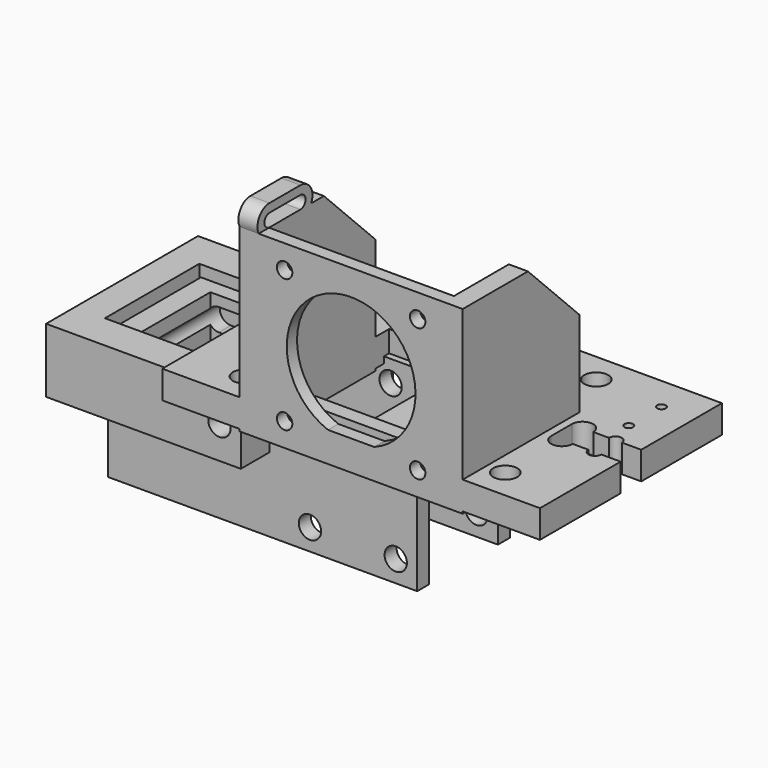
from build123d import *

# Parameters (mm, degrees)
SKETCH_W         = 88
SKETCH_H         = 53
SKETCH_R         = 2.8
SKETCH_R_2       = 3.65
PAD_DEPTH        = 6.5
SKETCH001_W      = 52
SKETCH001_H      = 42
SKETCH001_R      = 15
SKETCH001_R_2    = 1.75
PAD001_DEPTH     = 34
SKETCH002_W      = 43.1
SKETCH002_H      = 42.6
POCKET_DEPTH     = 35
CHAMFER001_SIZE  = 15
SKETCH003_R      = 1.8
HOLE_DEPTH       = 25
HOLE_TIPS_R      = 1.8
SKETCH004_W      = 16.18
SKETCH004_H      = 6
POCKET001_DEPTH  = 8.001
CHAMFER003_SIZE2 = 14
CHAMFER003_SIZE  = 20
SKETCH012_R      = 1
HOLE002_DEPTH    = 25
HOLE002_TIPS_R   = 1
PAD004_DEPTH     = 4.45
SKETCH005_W      = 72
SKETCH005_H      = 30
SKETCH005_R      = 2.6
PAD002_DEPTH     = 13.5
SKETCH006_W      = 67
SKETCH006_H      = 30
POCKET002_DEPTH  = 10
PAD003_DEPTH     = 7.5
SKETCH008_R      = 2.6
POCKET003_DEPTH  = 44.263864
SKETCH009_R      = 2.9
HOLE001_DEPTH    = 25
HOLE001_TIPS_R   = 2.9
POCKET004_DEPTH  = 2
SKETCH016_W      = 20
SKETCH016_H      = 20
SKETCH016_R      = 2.6
PAD006_DEPTH     = 3
SKETCH017_R      = 1.05
HOLE004_DEPTH    = 3.001


with BuildPart() as body:
    # Sketch → Pad (new body)
    with BuildSketch(Plane.XY.offset(3.5)):
        Rectangle(SKETCH_W, SKETCH_H)
        with Locations((20.32, 19.5)):
            Circle(SKETCH_R, mode=Mode.SUBTRACT)
        with Locations((-30.32, -19.5)):
            Circle(SKETCH_R, mode=Mode.SUBTRACT)
        with Locations((30.32, -19.5)):
            Circle(SKETCH_R, mode=Mode.SUBTRACT)
        with Locations((-20.32, 19.5)):
            Circle(SKETCH_R, mode=Mode.SUBTRACT)
        with Locations((0, 19.5)):
            Circle(SKETCH_R_2, mode=Mode.SUBTRACT)
        with BuildLine():
            ThreePointArc((-36.5, 3), (-38, 4.5), (-39.5, 3))
            Line((-39.5, 3), (-39.5, -3))
            ThreePointArc((-39.5, -3), (-38, -4.5), (-36.5, -3))
            Line((-36.5, -3), (-36.5, 3))
        make_face(mode=Mode.SUBTRACT)
        with BuildLine():
            ThreePointArc((39.5, 3), (38, 4.5), (36.5, 3))
            Line((36.5, 3), (36.5, -3))
            ThreePointArc((36.5, -3), (38, -4.5), (39.5, -3))
            Line((39.5, -3), (39.5, 3))
        make_face(mode=Mode.SUBTRACT)
        with BuildLine():
            ThreePointArc((-27.82, 3), (-30.32, 5.5), (-32.82, 3))
            Line((-32.82, 3), (-32.82, -3))
            ThreePointArc((-32.82, -3), (-30.32, -5.5), (-27.82, -3))
            Line((-27.82, -3), (-27.82, 3))
        make_face(mode=Mode.SUBTRACT)
        with BuildLine():
            ThreePointArc((32.82, 3), (30.32, 5.5), (27.82, 3))
            Line((27.82, 3), (27.82, -3))
            ThreePointArc((27.82, -3), (30.32, -5.5), (32.82, -3))
            Line((32.82, -3), (32.82, 3))
        make_face(mode=Mode.SUBTRACT)
    extrude(amount=PAD_DEPTH)

    # Sketch001 → Pad001 (join)
    with BuildSketch(Plane(origin=(0, -26.5, 24), x_dir=(1, 0, 0), z_dir=(0, -1, 0))):
        Rectangle(SKETCH001_W, SKETCH001_H)
        Circle(SKETCH001_R, mode=Mode.SUBTRACT)
        with Locations((-15.5, 15.5)):
            Circle(SKETCH001_R_2, mode=Mode.SUBTRACT)
        with Locations((-15.5, -15.5)):
            Circle(SKETCH001_R_2, mode=Mode.SUBTRACT)
        with Locations((15.5, -15.5)):
            Circle(SKETCH001_R_2, mode=Mode.SUBTRACT)
        with Locations((15.5, 15.5)):
            Circle(SKETCH001_R_2, mode=Mode.SUBTRACT)
    extrude(amount=-PAD001_DEPTH)

    # Sketch002 → Pocket (cut)
    with BuildSketch(Plane(origin=(0, -23.5, 24), x_dir=(1, 0, 0), z_dir=(0, -1, 0))):
        Rectangle(SKETCH002_W, SKETCH002_H)
    extrude(amount=-POCKET_DEPTH, mode=Mode.SUBTRACT)

    # Chamfer001
    chamfer001_edges = [body.edges().sort_by_distance(p)[0] for p in [
        (-23.775, 7.5, 45),
        (23.775, 7.5, 45),
    ]]
    chamfer(chamfer001_edges, length=CHAMFER001_SIZE)

    # Sketch003 → Hole (cut)
    with BuildSketch(Plane(origin=(0, -26.5, 24), x_dir=(1, 0, 0), z_dir=(0, -1, 0))):
        Circle(SKETCH003_R)
        with Locations((-15.5, 15.5)):
            Circle(SKETCH003_R)
        with Locations((-15.5, -15.5)):
            Circle(SKETCH003_R)
        with Locations((15.5, -15.5)):
            Circle(SKETCH003_R)
        with Locations((15.5, 15.5)):
            Circle(SKETCH003_R)
    extrude(amount=-HOLE_DEPTH, mode=Mode.SUBTRACT)

    # Hole tips → Hole tip 1 section 0
    with BuildSketch(Plane(origin=(0, -1.5, 24), x_dir=(1, 0, 0), z_dir=(0, -1, 0)), mode=Mode.PRIVATE) as hole_tip_1_s0:
        Circle(HOLE_TIPS_R)
    loft([hole_tip_1_s0.sketch, Vertex(0, -0.418451, 24)], mode=Mode.SUBTRACT)

    # Hole tips → Hole tip 2 section 0
    with BuildSketch(Plane(origin=(0, -1.5, 24), x_dir=(1, 0, 0), z_dir=(0, -1, 0)), mode=Mode.PRIVATE) as hole_tip_2_s0:
        with Locations((-15.5, 15.5)):
            Circle(HOLE_TIPS_R)
    loft([hole_tip_2_s0.sketch, Vertex(-15.5, -0.418451, 39.5)], mode=Mode.SUBTRACT)

    # Hole tips → Hole tip 3 section 0
    with BuildSketch(Plane(origin=(0, -1.5, 24), x_dir=(1, 0, 0), z_dir=(0, -1, 0)), mode=Mode.PRIVATE) as hole_tip_3_s0:
        with Locations((-15.5, -15.5)):
            Circle(HOLE_TIPS_R)
    loft([hole_tip_3_s0.sketch, Vertex(-15.5, -0.418451, 8.5)], mode=Mode.SUBTRACT)

    # Hole tips → Hole tip 4 section 0
    with BuildSketch(Plane(origin=(0, -1.5, 24), x_dir=(1, 0, 0), z_dir=(0, -1, 0)), mode=Mode.PRIVATE) as hole_tip_4_s0:
        with Locations((15.5, -15.5)):
            Circle(HOLE_TIPS_R)
    loft([hole_tip_4_s0.sketch, Vertex(15.5, -0.418451, 8.5)], mode=Mode.SUBTRACT)

    # Hole tips → Hole tip 5 section 0
    with BuildSketch(Plane(origin=(0, -1.5, 24), x_dir=(1, 0, 0), z_dir=(0, -1, 0)), mode=Mode.PRIVATE) as hole_tip_5_s0:
        with Locations((15.5, 15.5)):
            Circle(HOLE_TIPS_R)
    loft([hole_tip_5_s0.sketch, Vertex(15.5, -0.418451, 39.5)], mode=Mode.SUBTRACT)

    # Sketch004 → Pocket001 (cut, through all)
    with BuildSketch(Plane.XY.offset(11)):
        with Locations((-35.91, 0)):
            Rectangle(SKETCH004_W, SKETCH004_H)
        with Locations((35.91, 0)):
            Rectangle(SKETCH004_W, SKETCH004_H)
    extrude(amount=-POCKET001_DEPTH, mode=Mode.SUBTRACT)

    # Chamfer003
    chamfer003_edges = [body.edges().sort_by_distance(p)[0] for p in [
        (-44, 26.5, 6.75),
    ]]
    chamfer003_side = body.faces().sort_by_distance((-44, 14.75, 6.75))[0]
    chamfer(chamfer003_edges, length=CHAMFER003_SIZE, length2=CHAMFER003_SIZE2, reference=chamfer003_side)

    # Sketch012 → Hole002 (cut)
    with BuildSketch(Plane.XY):
        with Locations((36.3, 9)):
            Circle(SKETCH012_R)
        with Locations((36.3, 18.5)):
            Circle(SKETCH012_R)
    extrude(amount=HOLE002_DEPTH, mode=Mode.SUBTRACT)

    # Hole002 tips → Hole002 tip 1 section 0
    with BuildSketch(Plane.XY.offset(25), mode=Mode.PRIVATE) as hole002_tip_1_s0:
        with Locations((36.3, 9)):
            Circle(HOLE002_TIPS_R)
    loft([hole002_tip_1_s0.sketch, Vertex(36.3, 9, 25.600861)], mode=Mode.SUBTRACT)

    # Hole002 tips → Hole002 tip 2 section 0
    with BuildSketch(Plane.XY.offset(25), mode=Mode.PRIVATE) as hole002_tip_2_s0:
        with Locations((36.3, 18.5)):
            Circle(HOLE002_TIPS_R)
    loft([hole002_tip_2_s0.sketch, Vertex(36.3, 18.5, 25.600861)], mode=Mode.SUBTRACT)

    # Sketch013 (on Face26 of Hole002) → Pad004 (join)
    with BuildSketch(Plane(origin=(-26, 0, 0), x_dir=(0, -1, 0), z_dir=(-1, 0, 0))):
        with BuildLine():
            ThreePointArc((14.337722, 50), (10.837722, 46.5), (14.337722, 43))
            Line((14.337722, 43), (23.337722, 43))
            ThreePointArc((23.337722, 43), (26.837722, 46.5), (23.337722, 50))
            Line((23.337722, 50), (14.337722, 50))
        make_face()
        with BuildLine():
            ThreePointArc((14.337722, 48), (12.837722, 46.5), (14.337722, 45))
            Line((14.337722, 45), (23.337722, 45))
            ThreePointArc((23.337722, 45), (24.837722, 46.5), (23.337722, 48))
            Line((23.337722, 48), (14.337722, 48))
        make_face(mode=Mode.SUBTRACT)
    extrude(amount=-PAD004_DEPTH)


with BuildPart() as body001:
    # Sketch005 → Pad002 (new body, symmetric)
    with BuildSketch(Plane.XZ):
        with Locations((-31, -10)):
            Rectangle(SKETCH005_W, SKETCH005_H)
        Circle(SKETCH005_R, mode=Mode.SUBTRACT)
        with Locations((-20, 0)):
            Circle(SKETCH005_R, mode=Mode.SUBTRACT)
        with Locations((0, -20)):
            Circle(SKETCH005_R, mode=Mode.SUBTRACT)
        with Locations((-20, -20)):
            Circle(SKETCH005_R, mode=Mode.SUBTRACT)
        with BuildLine():
            ThreePointArc((-40, -2.6), (-37.4, 0), (-40, 2.6))
            Line((-40, 2.6), (-60, 2.6))
            ThreePointArc((-60, 2.6), (-62.6, 0), (-60, -2.6))
            Line((-60, -2.6), (-40, -2.6))
        make_face(mode=Mode.SUBTRACT)
    extrude(amount=PAD002_DEPTH, both=True)

    # Sketch006 → Pocket002 (cut, symmetric)
    with BuildSketch(Plane.XZ):
        with Locations((-28.5, -10)):
            Rectangle(SKETCH006_W, SKETCH006_H)
    extrude(amount=POCKET002_DEPTH, both=True, mode=Mode.SUBTRACT)


with BuildPart() as arm:
    # Sketch007 → Pad003 (new body, symmetric)
    with BuildSketch(Plane.XY):
        Polygon((-29.186819, 13.75), (-29.186819, 22.131432), (-74.573181, 22.131432), (-74.573181, -22.131432), (-29.186819, -22.131432), (-29.186819, -13.75), (-67.573181, -13.75), (-67.573181, 13.75), align=None)
    extrude(amount=PAD003_DEPTH, both=True)

    # Sketch008 (on Face4 of Pad003) → Pocket003 (cut, through all)
    with BuildSketch(Plane.XZ.offset(22.131432)):
        with Locations((-34.186819, 0)):
            Circle(SKETCH008_R)
    extrude(amount=-POCKET003_DEPTH, mode=Mode.SUBTRACT)

    # Sketch009 (on Face8 of Pocket003) → Hole001 (cut)
    with BuildSketch(Plane(origin=(-74.573181, 0, 0), x_dir=(0, -1, 0), z_dir=(-1, 0, 0))):
        with Locations((8.75, 0)):
            Circle(SKETCH009_R)
        with Locations((-8.75, 0)):
            Circle(SKETCH009_R)
    extrude(amount=-HOLE001_DEPTH, mode=Mode.SUBTRACT)

    # Hole001 tips → Hole001 tip 1 section 0
    with BuildSketch(Plane(origin=(-49.573181, 0, 0), x_dir=(0, -1, 0), z_dir=(-1, 0, 0)), mode=Mode.PRIVATE) as hole001_tip_1_s0:
        with Locations((8.75, 0)):
            Circle(HOLE001_TIPS_R)
    loft([hole001_tip_1_s0.sketch, Vertex(-47.830685, -8.75, 0)], mode=Mode.SUBTRACT)

    # Hole001 tips → Hole001 tip 2 section 0
    with BuildSketch(Plane(origin=(-49.573181, 0, 0), x_dir=(0, -1, 0), z_dir=(-1, 0, 0)), mode=Mode.PRIVATE) as hole001_tip_2_s0:
        with Locations((-8.75, 0)):
            Circle(HOLE001_TIPS_R)
    loft([hole001_tip_2_s0.sketch, Vertex(-47.830685, 8.75, 0)], mode=Mode.SUBTRACT)

    # Sketch010 (on Face6 of Hole001) → Pocket004 (cut)
    with BuildSketch(Plane.YZ.offset(-67.573181)):
        Polygon((-12.603813, 2.225), (-12.603813, -2.225), (-8.75, -4.45), (-4.896187, -2.225), (-4.896187, 2.225), (-8.75, 4.45), align=None)
        Polygon((8.75, 4.45), (4.896187, 2.225), (4.896187, -2.225), (8.75, -4.45), (12.603813, -2.225), (12.603813, 2.225), align=None)
    extrude(amount=-POCKET004_DEPTH, mode=Mode.SUBTRACT)


with BuildPart() as endstop:
    # Sketch016 → Pad006 (new body)
    with BuildSketch(Plane.XY):
        Rectangle(SKETCH016_W, SKETCH016_H)
        Circle(SKETCH016_R, mode=Mode.SUBTRACT)
    extrude(amount=PAD006_DEPTH)

    # Sketch017 → Hole004 (cut, through all)
    with BuildSketch(Plane.XY):
        with Locations((4.75, 5)):
            Circle(SKETCH017_R)
        with Locations((-4.75, 5)):
            Circle(SKETCH017_R)
    extrude(amount=HOLE004_DEPTH, mode=Mode.SUBTRACT)


solid = Compound([body.part, body001.part, arm.part, endstop.part])
